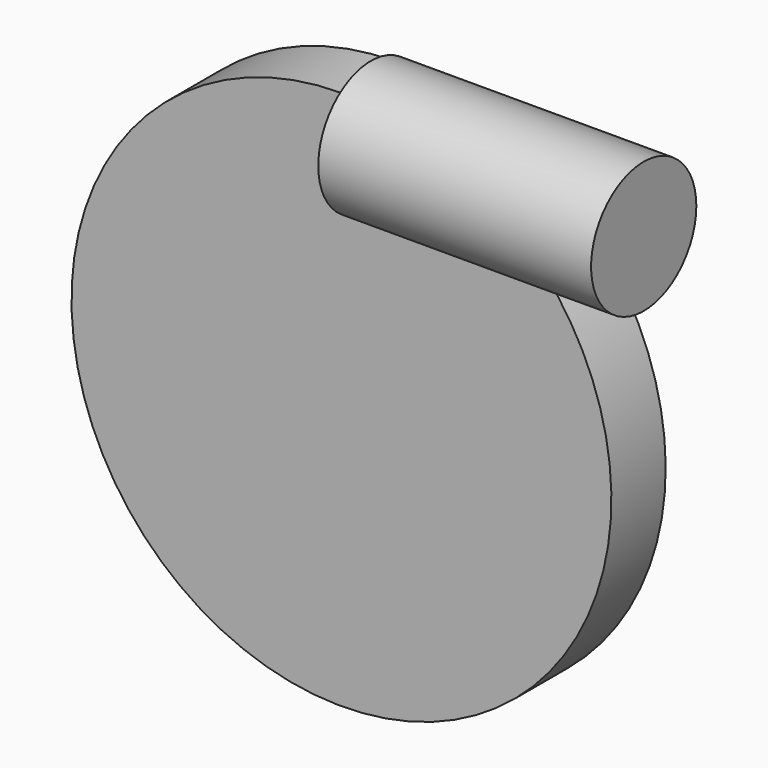
from build123d import *

# Parameters (mm, degrees)
F0_R     = 50.513701
F1_DEPTH = 12.7
F2_R     = 12.303799
F3_DEPTH = 51.054
F4_R     = 29.597437
F5_DEPTH = 3.048


with BuildPart() as f1:
    # F0 (on Front) → F1 (new body)
    with BuildSketch(Plane.XZ):
        Circle(F0_R)
    extrude(amount=F1_DEPTH)

    # F2 (on Right) → F3 (join)
    with BuildSketch(Plane.YZ):
        with Locations((-5.813534, 40.69474)):
            Circle(F2_R)
    extrude(amount=F3_DEPTH)

    # F4 (on Front) → F5 (join)
    with BuildSketch(Plane.XZ):
        Circle(F4_R)
    extrude(amount=-F5_DEPTH)


solid = f1.part
